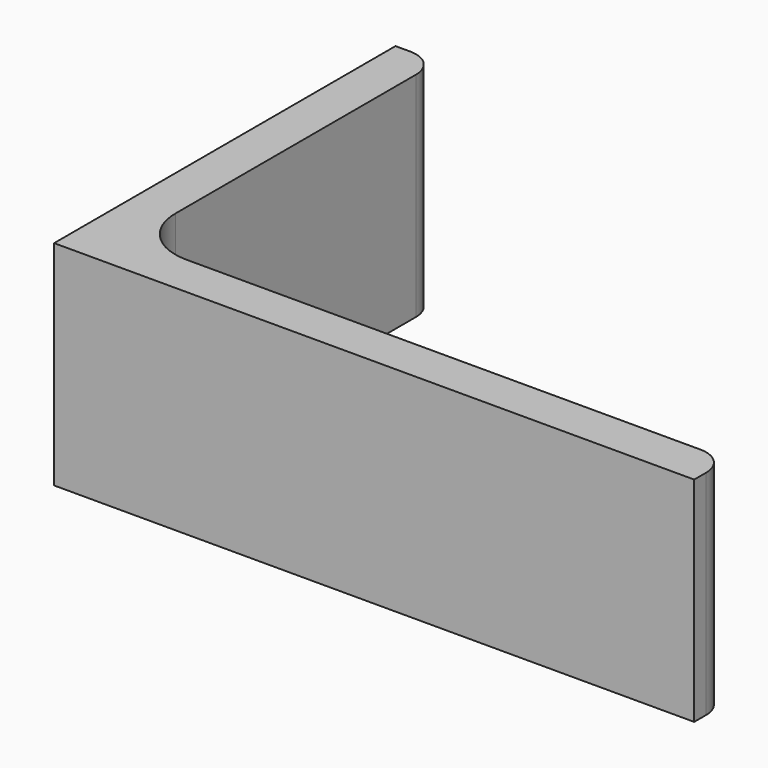
from build123d import *

# Parameters (mm, degrees)
EXTRUDE_DEPTH = 50


with BuildPart() as part:
    # Sketch → Extrude (new body)
    with BuildSketch(Plane.XY):
        with BuildLine():
            Line((0, 0), (150, 0))
            Line((150, 0), (150, 3.5))
            ThreePointArc((150, 3.5), (148.096194, 8.096194), (143.5, 10))
            Line((143.5, 10), (23, 10))
            ThreePointArc((10, 23), (13.807612, 13.807612), (23, 10))
            Line((10, 93.5), (10, 23))
            ThreePointArc((10, 93.5), (8.096194, 98.096194), (3.5, 100))
            Line((0, 100), (3.5, 100))
            Line((0, 0), (0, 100))
        make_face()
    extrude(amount=EXTRUDE_DEPTH)


solid = part.part
